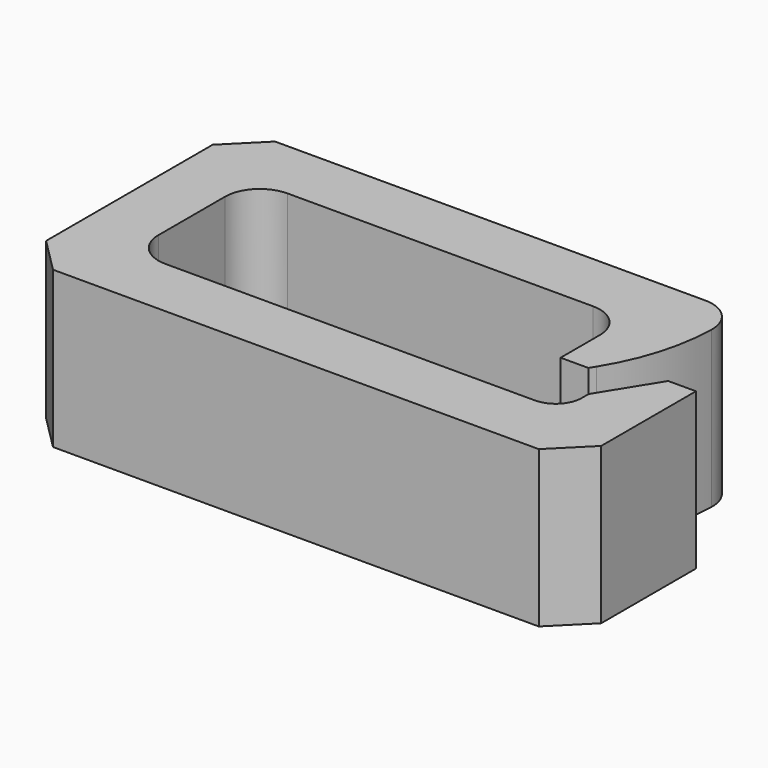
from build123d import *

# Parameters (mm, degrees)
PAD_DEPTH    = 4.5
CHAMFER_SIZE = 1
FILLET_R     = 1
FILLET001_R  = 0.75
FILLET002_R  = 6
FILLET003_R  = 1


with BuildPart() as part:
    # Sketch → Pad (new body)
    with BuildSketch(Plane.XY):
        Polygon((0, 0), (0, 8), (14.4, 8), (14.4, 5.4), (13.4, 3.786999), (12.6, 3.786999), (12.6, 6.2), (1.8, 6.2), (1.8, 1.8), (14.2, 1.8), (14.2, 2.8), (15.2, 4.413001), (16, 4.413001), (16, 0), align=None)
    extrude(amount=PAD_DEPTH)

    # Chamfer
    chamfer_edges = [part.edges().sort_by_distance(p)[0] for p in [
        (0, 8, 2.25),
        (0, 0, 2.25),
        (16, 0, 2.25),
    ]]
    chamfer(chamfer_edges, length=CHAMFER_SIZE)

    # Fillet
    fillet_edges = [part.edges().sort_by_distance(p)[0] for p in [
        (1.8, 6.2, 2.25),
        (1.8, 1.8, 2.25),
        (12.6, 6.2, 2.25),
    ]]
    fillet(fillet_edges, radius=FILLET_R)

    # Fillet001
    fillet001_edges = [part.edges().sort_by_distance(p)[0] for p in [
        (14.2, 1.8, 2.25),
    ]]
    fillet(fillet001_edges, radius=FILLET001_R)

    # Fillet002
    fillet002_edges = [part.edges().sort_by_distance(p)[0] for p in [
        (14.4, 5.4, 2.25),
    ]]
    fillet(fillet002_edges, radius=FILLET002_R)

    # Fillet003
    fillet003_edges = [part.edges().sort_by_distance(p)[0] for p in [
        (14.4, 8, 2.25),
    ]]
    fillet(fillet003_edges, radius=FILLET003_R)


solid = part.part
